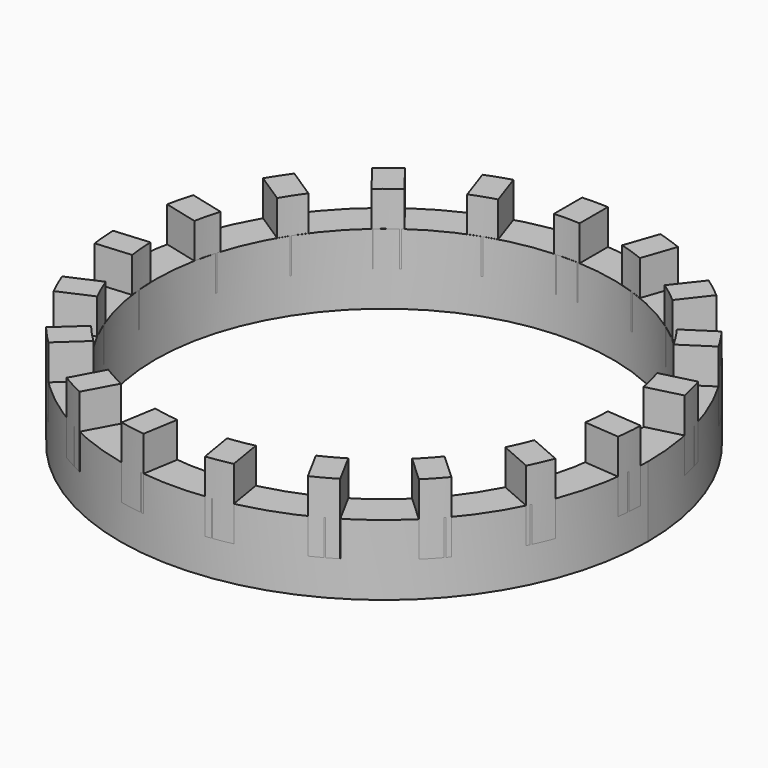
from build123d import *

# Parameters (mm, degrees)
F0_R     = 8.255
F1_DEPTH = 2.54
F4_DEPTH = 1.27
F5_COUNT = 19


with BuildPart() as f1:
    # F0 (on Top) → F1 (new body)
    with BuildSketch(Plane.XY):
        with BuildLine():
            ThreePointArc((-0.630611333, 9.5041019748), (-6.5084196259, -6.9545739606), (9.525, 0))
            ThreePointArc((9.525, 0), (6.9545739606, 6.5084196259), (0.630611333, 9.5041019748))
            Line((0.630611333, 9.5041019748), (0.630611333, 8.8676056152))
            Line((0.630611333, 8.8676056152), (-0.630611333, 8.8676056152))
            Line((-0.630611333, 8.8676056152), (-0.630611333, 9.5041019748))
        make_face()
        Circle(F0_R, mode=Mode.SUBTRACT)
        with BuildLine():
            ThreePointArc((-0.630611333, 9.5041019748), (-6.5084196259, -6.9545739606), (9.525, 0))
            ThreePointArc((9.525, 0), (6.9545739606, 6.5084196259), (0.630611333, 9.5041019748))
            Line((0.630611333, 9.5041019748), (0.630611333, 8.8676056152))
            Line((0.630611333, 8.8676056152), (-0.630611333, 8.8676056152))
            Line((-0.630611333, 8.8676056152), (-0.630611333, 9.5041019748))
        make_face()
        Circle(F0_R, mode=Mode.SUBTRACT)
        with BuildLine():
            ThreePointArc((-0.630611333, 9.5041019748), (-6.5084196259, -6.9545739606), (9.525, 0))
            ThreePointArc((9.525, 0), (6.9545739606, 6.5084196259), (0.630611333, 9.5041019748))
            Line((0.630611333, 9.5041019748), (0.630611333, 8.8676056152))
            Line((0.630611333, 8.8676056152), (-0.630611333, 8.8676056152))
            Line((-0.630611333, 8.8676056152), (-0.630611333, 9.5041019748))
        make_face()
        Circle(F0_R, mode=Mode.SUBTRACT)
        with BuildLine():
            Line((0.630611333, 8.8676056152), (0.630611333, 9.5041019748))
            ThreePointArc((0.630611333, 9.5041019748), (0, 9.525), (-0.630611333, 9.5041019748))
            Line((-0.630611333, 9.5041019748), (-0.630611333, 8.8676056152))
            Line((-0.630611333, 8.8676056152), (0.630611333, 8.8676056152))
        make_face()
    extrude(amount=F1_DEPTH)


with BuildPart() as f4:
    # F2 (on face) → F4 (new body, symmetric)
    with BuildSketch(Plane.XY.offset(2.54)):
        with BuildLine():
            ThreePointArc((-0.4637183332, 8.8778975725), (0, 8.89), (0.4637183332, 8.8778975725))
            Line((0.4637183332, 8.8778975725), (0.4637183332, 9.5137053931))
            ThreePointArc((0.4637183332, 9.5137053931), (0, 9.525), (-0.4637183332, 9.5137053931))
            Line((-0.4637183332, 9.5137053931), (-0.4637183332, 8.8778975725))
        make_face()
        with BuildLine():
            Line((0.4637183332, 8.2419651969), (0.4637183332, 8.8778975725))
            ThreePointArc((0.4637183332, 8.8778975725), (0, 8.89), (-0.4637183332, 8.8778975725))
            Line((-0.4637183332, 8.8778975725), (-0.4637183332, 8.2419651969))
            ThreePointArc((-0.4637183332, 8.2419651969), (0, 8.255), (0.4637183332, 8.2419651969))
        make_face()
    extrude(amount=F4_DEPTH, both=True)


with BuildPart() as f5_1:
    # F5: instance of F4
    add(f4.part.rotate(Axis((0, 0, 5.1717939787), (0, 0, 1)), 1 * 360 / F5_COUNT))


with BuildPart() as f5_2:
    # F5: instance of F4
    add(f4.part.rotate(Axis((0, 0, 5.1717939787), (0, 0, 1)), 2 * 360 / F5_COUNT))


with BuildPart() as f5_3:
    # F5: instance of F4
    add(f4.part.rotate(Axis((0, 0, 5.1717939787), (0, 0, 1)), 3 * 360 / F5_COUNT))


with BuildPart() as f5_4:
    # F5: instance of F4
    add(f4.part.rotate(Axis((0, 0, 5.1717939787), (0, 0, 1)), 4 * 360 / F5_COUNT))


with BuildPart() as f5_5:
    # F5: instance of F4
    add(f4.part.rotate(Axis((0, 0, 5.1717939787), (0, 0, 1)), 5 * 360 / F5_COUNT))


with BuildPart() as f5_6:
    # F5: instance of F4
    add(f4.part.rotate(Axis((0, 0, 5.1717939787), (0, 0, 1)), 6 * 360 / F5_COUNT))


with BuildPart() as f5_7:
    # F5: instance of F4
    add(f4.part.rotate(Axis((0, 0, 5.1717939787), (0, 0, 1)), 7 * 360 / F5_COUNT))


with BuildPart() as f5_8:
    # F5: instance of F4
    add(f4.part.rotate(Axis((0, 0, 5.1717939787), (0, 0, 1)), 8 * 360 / F5_COUNT))


with BuildPart() as f5_9:
    # F5: instance of F4
    add(f4.part.rotate(Axis((0, 0, 5.1717939787), (0, 0, 1)), 9 * 360 / F5_COUNT))


with BuildPart() as f5_10:
    # F5: instance of F4
    add(f4.part.rotate(Axis((0, 0, 5.1717939787), (0, 0, 1)), 10 * 360 / F5_COUNT))


with BuildPart() as f5_11:
    # F5: instance of F4
    add(f4.part.rotate(Axis((0, 0, 5.1717939787), (0, 0, 1)), 11 * 360 / F5_COUNT))


with BuildPart() as f5_12:
    # F5: instance of F4
    add(f4.part.rotate(Axis((0, 0, 5.1717939787), (0, 0, 1)), 12 * 360 / F5_COUNT))


with BuildPart() as f5_13:
    # F5: instance of F4
    add(f4.part.rotate(Axis((0, 0, 5.1717939787), (0, 0, 1)), 13 * 360 / F5_COUNT))


with BuildPart() as f5_14:
    # F5: instance of F4
    add(f4.part.rotate(Axis((0, 0, 5.1717939787), (0, 0, 1)), 14 * 360 / F5_COUNT))


with BuildPart() as f5_15:
    # F5: instance of F4
    add(f4.part.rotate(Axis((0, 0, 5.1717939787), (0, 0, 1)), 15 * 360 / F5_COUNT))


with BuildPart() as f5_16:
    # F5: instance of F4
    add(f4.part.rotate(Axis((0, 0, 5.1717939787), (0, 0, 1)), 16 * 360 / F5_COUNT))


with BuildPart() as f5_17:
    # F5: instance of F4
    add(f4.part.rotate(Axis((0, 0, 5.1717939787), (0, 0, 1)), 17 * 360 / F5_COUNT))


with BuildPart() as f5_18:
    # F5: instance of F4
    add(f4.part.rotate(Axis((0, 0, 5.1717939787), (0, 0, 1)), 18 * 360 / F5_COUNT))


solid = Compound([f1.part, f4.part, f5_1.part, f5_2.part, f5_3.part, f5_4.part, f5_5.part, f5_6.part, f5_7.part, f5_8.part, f5_9.part, f5_10.part, f5_11.part, f5_12.part, f5_13.part, f5_14.part, f5_15.part, f5_16.part, f5_17.part, f5_18.part])
